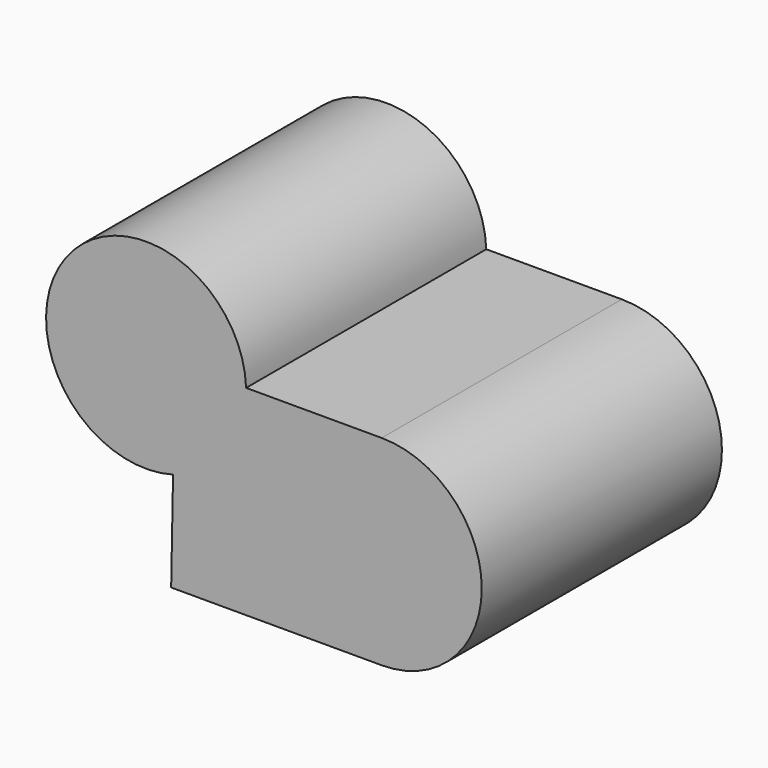
from build123d import *

# Parameters (mm, degrees)
F1_DEPTH = 76.2


with BuildPart() as f1:
    # F0 (on Front) → F1 (new body)
    with BuildSketch(Plane.XZ):
        with BuildLine():
            Line((12.712441, 19.624272), (-21.695151, 19.624272))
            ThreePointArc((-21.695151, 19.624272), (-67.590624, 33.663258), (-40.246621, -5.780285))
            Line((-40.246621, -5.780285), (-40.727737, -31.175728))
            Line((-40.727737, -31.175728), (12.712441, -31.175728))
            ThreePointArc((12.712441, -31.175728), (38.112441, -5.775728), (12.712441, 19.624272))
        make_face()
    extrude(amount=F1_DEPTH)


solid = f1.part
